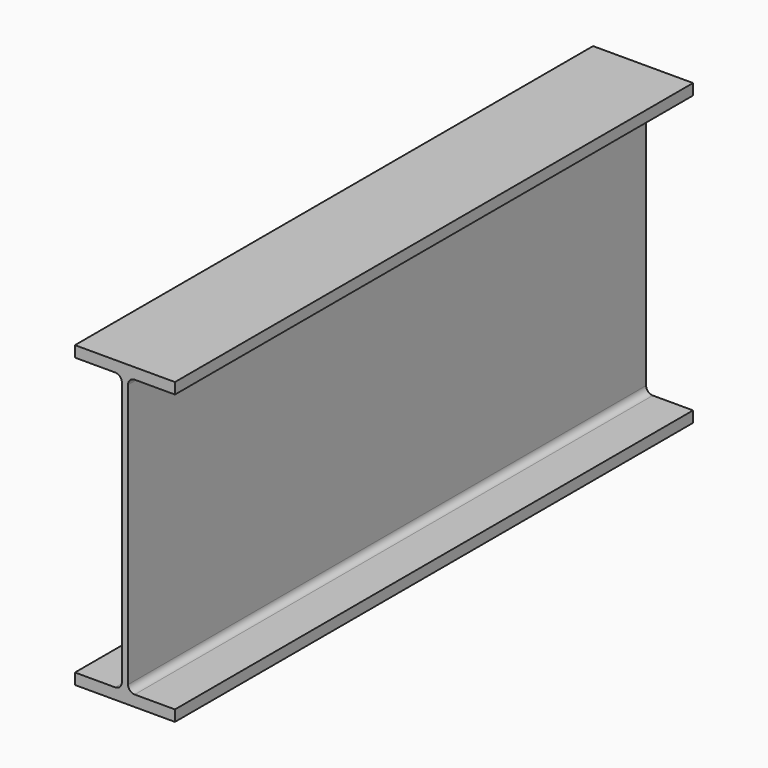
from build123d import *

# Parameters (mm, degrees)
F1_DEPTH = 1000


with BuildPart() as f1:
    # F0 (on Front) → F1 (new body)
    with BuildSketch(Plane.XZ):
        with BuildLine():
            Line((-72.4, 558.240645), (-72.4, 541.240645))
            Line((-72.4, 541.240645), (82, 541.240645))
            Line((82, 541.240645), (82, 558.240645))
            Line((82, 558.240645), (19.8, 558.240645))
            ThreePointArc((19.8, 558.240645), (12.587511, 561.228156), (9.6, 568.440645))
            Line((9.6, 568.440645), (9.6, 976.040645))
            ThreePointArc((9.6, 976.040645), (12.587511, 983.253134), (19.8, 986.240645))
            Line((19.8, 986.240645), (82, 986.240645))
            Line((82, 986.240645), (82, 1003.240645))
            Line((82, 1003.240645), (-72.4, 1003.240645))
            Line((-72.4, 1003.240645), (-72.4, 986.240645))
            Line((-72.4, 986.240645), (-10.2, 986.240645))
            ThreePointArc((-10.2, 986.240645), (-2.987511, 983.253134), (0, 976.040645))
            Line((0, 976.040645), (0, 568.440645))
            ThreePointArc((0, 568.440645), (-2.987511, 561.228156), (-10.2, 558.240645))
            Line((-10.2, 558.240645), (-72.4, 558.240645))
        make_face()
    extrude(amount=-F1_DEPTH)


solid = f1.part
